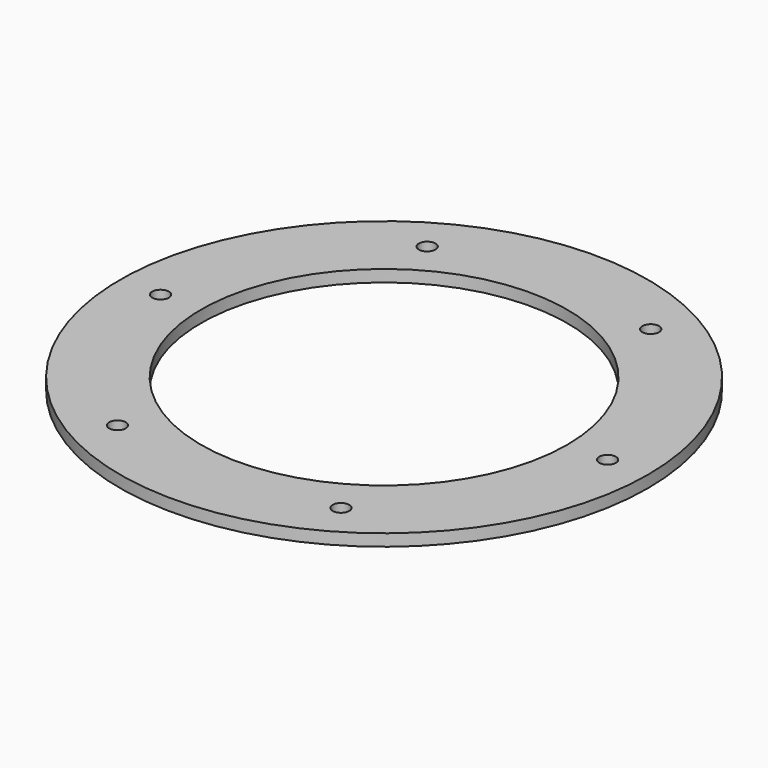
from build123d import *

# Parameters (mm, degrees)
F0_R     = 111
F0_R_2   = 3.5
F0_R_3   = 77
F1_DEPTH = 5


with BuildPart() as f1:
    # F0 (on Top) → F1 (new body)
    with BuildSketch(Plane.XY):
        Circle(F0_R)
        with Locations((-47, -81.406388)):
            Circle(F0_R_2, mode=Mode.SUBTRACT)
        with Locations((47, -81.406388)):
            Circle(F0_R_2, mode=Mode.SUBTRACT)
        with Locations((-94, 0)):
            Circle(F0_R_2, mode=Mode.SUBTRACT)
        with Locations((-47, 81.406388)):
            Circle(F0_R_2, mode=Mode.SUBTRACT)
        Circle(F0_R_3, mode=Mode.SUBTRACT)
        with Locations((94, 0)):
            Circle(F0_R_2, mode=Mode.SUBTRACT)
        with Locations((47, 81.406388)):
            Circle(F0_R_2, mode=Mode.SUBTRACT)
    extrude(amount=F1_DEPTH)


solid = f1.part
